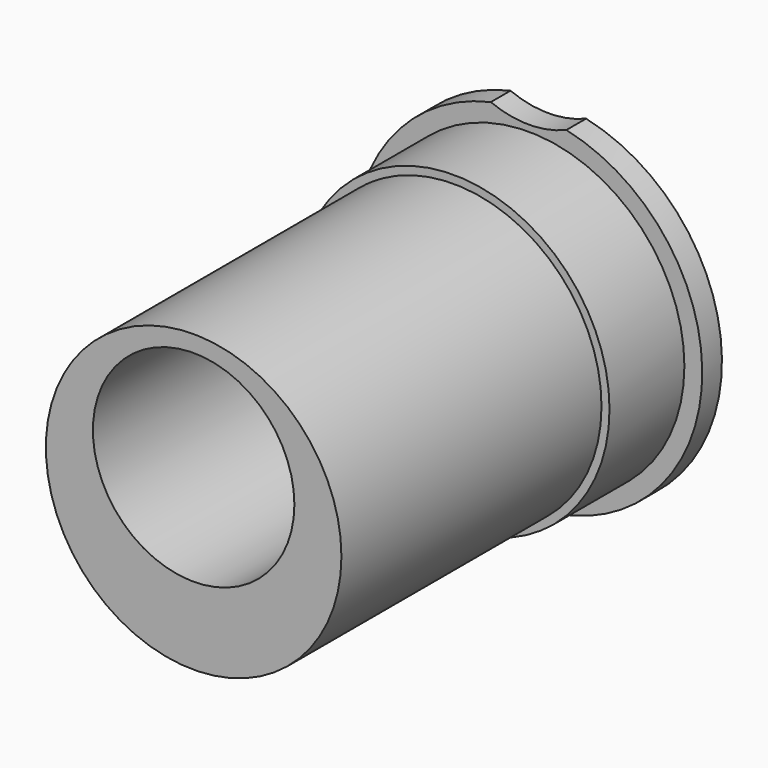
from build123d import *

# Parameters (mm, degrees)
F0_R     = 15.24
F0_R_2   = 10.3886
F1_DEPTH = 45.72
F0_R_3   = 16.0655
F2_DEPTH = 2.54
F3_DEPTH = 12.192
F4_R     = 11.557
F4_R_2   = 10.3886
F5_DEPTH = 7.62
F6_DEPTH = 5.08
F7_DEPTH = 2.54


with BuildPart() as f1:
    # F0 (on Front) → F1 (new body)
    with BuildSketch(Plane.XZ):
        Circle(F0_R)
        with Locations((0, 3.1369)):
            Circle(F0_R_2, mode=Mode.SUBTRACT)
    extrude(amount=F1_DEPTH)

    # F4 (on face) → F5 (cut)
    with BuildSketch(Plane(origin=(0, 0, 0), x_dir=(-1, 0, 0), z_dir=(0, 1, 0))):
        with Locations((0, 3.1369)):
            Circle(F4_R)
        with Locations((0, 3.1369)):
            Circle(F4_R_2, mode=Mode.SUBTRACT)
    extrude(amount=-F5_DEPTH, mode=Mode.SUBTRACT)

    # F4 (on face) → F6 (cut)
    with BuildSketch(Plane(origin=(0, 0, 0), x_dir=(-1, 0, 0), z_dir=(0, 1, 0))):
        with BuildLine():
            ThreePointArc((-12.1837204898, 9.1550289474), (0, 15.24), (12.1837204898, 9.1550289474))
            ThreePointArc((12.1837204898, 9.1550289474), (0, 16.7259), (-12.1837204898, 9.1550289474))
        make_face()
        with BuildLine():
            ThreePointArc((-12.1837204898, 9.1550289474), (-3.090011591, -10.0961173947), (13.589, 3.1369))
            ThreePointArc((13.589, 3.1369), (13.2330173947, 6.226911591), (12.1837204898, 9.1550289474))
            ThreePointArc((12.1837204898, 9.1550289474), (0, 15.24), (-12.1837204898, 9.1550289474))
        make_face()
        with Locations((0, 3.1369)):
            Circle(F4_R, mode=Mode.SUBTRACT)
    extrude(amount=F6_DEPTH, mode=Mode.SUBTRACT)

    # F4 (on face) → F7 (cut)
    with BuildSketch(Plane(origin=(0, 0, 0), x_dir=(-1, 0, 0), z_dir=(0, 1, 0))):
        with BuildLine():
            ThreePointArc((-12.1837204898, 9.1550289474), (-3.090011591, -10.0961173947), (13.589, 3.1369))
            ThreePointArc((13.589, 3.1369), (13.2330173947, 6.226911591), (12.1837204898, 9.1550289474))
            ThreePointArc((12.1837204898, 9.1550289474), (0, 15.24), (-12.1837204898, 9.1550289474))
        make_face()
        with Locations((0, 3.1369)):
            Circle(F4_R, mode=Mode.SUBTRACT)
    extrude(amount=-F7_DEPTH, mode=Mode.SUBTRACT)


with BuildPart() as f2:
    # F0 (on Front) → F2 (new body)
    with BuildSketch(Plane.XZ):
        with BuildLine():
            ThreePointArc((3.8973527479, 17.4777369976), (0, 16.7005), (-3.8973527479, 17.4777369976))
            ThreePointArc((-3.8973527479, 17.4777369976), (0, -17.907), (3.8973527479, 17.4777369976))
        make_face()
        Circle(F0_R_3, mode=Mode.SUBTRACT)
    extrude(amount=F2_DEPTH)


with BuildPart() as f3:
    # F0 (on Front) → F3 (new body)
    with BuildSketch(Plane.XZ):
        Circle(F0_R_3)
        Circle(F0_R, mode=Mode.SUBTRACT)
    extrude(amount=F3_DEPTH)


solid = Compound([f1.part, f2.part, f3.part])
